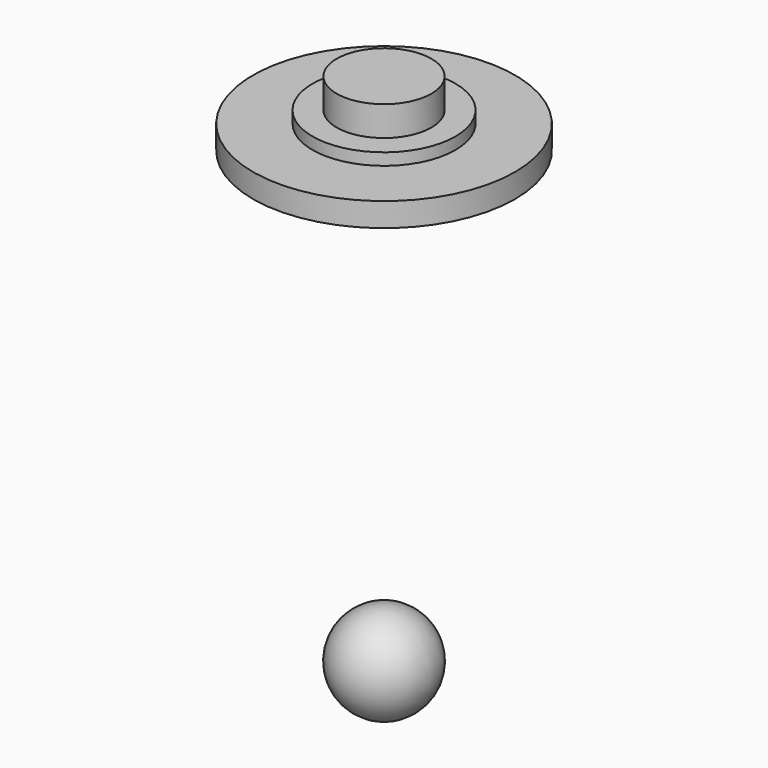
from build123d import *

# Parameters (mm, degrees)
F0_R     = 11
F1_DEPTH = 2
F2_R     = 6
F3_DEPTH = 1
F4_R     = 3.975
F5_DEPTH = 2.5
F7_DEPTH = 0.75


with BuildPart() as f1:
    # F0 (on Top) → F1 (new body)
    with BuildSketch(Plane.XY):
        Circle(F0_R)
    extrude(amount=F1_DEPTH)

    # F2 (on face) → F3 (join)
    with BuildSketch(Plane.XY.offset(2)):
        Circle(F2_R)
    extrude(amount=F3_DEPTH)

    # F4 (on face) → F5 (join)
    with BuildSketch(Plane.XY.offset(3)):
        Circle(F4_R)
    extrude(amount=F5_DEPTH)

    # F6 (on face) → F7 (cut)
    with BuildSketch(Plane(origin=(0, 0, 0), x_dir=(1, 0, 0), z_dir=(0, 0, -1))):
        with BuildLine():
            ThreePointArc((2.74524, -4.765885), (3.963217, -5.715974), (4.868249, -6.967794))
            ThreePointArc((4.868249, -6.967794), (-0.010492, 8.499994), (-4.851034, -6.979791))
            ThreePointArc((-4.851034, -6.979791), (-3.949094, -5.72574), (-2.733467, -4.772647))
            ThreePointArc((-2.733467, -4.772647), (-4.627931, -2.971911), (-5.477226, -0.5))
            Line((-5.477226, -0.5), (5.477226, -0.5))
            ThreePointArc((5.477226, -0.5), (4.631596, -2.966196), (2.74524, -4.765885))
        make_face()
        with BuildLine():
            ThreePointArc((-5.477226, 0.5), (0, 5.5), (5.477226, 0.5))
            Line((5.477226, 0.5), (-5.477226, 0.5))
        make_face(mode=Mode.SUBTRACT)
    extrude(amount=-F7_DEPTH, mode=Mode.SUBTRACT)


with BuildPart() as f9:
    # F8 (on Front) → F9 (revolve)
    with BuildSketch(Plane.XZ):
        with BuildLine():
            Line((0, -33.701194), (0, -41.701194))
            ThreePointArc((0, -41.701194), (4, -37.701194), (0, -33.701194))
        make_face()
    revolve(axis=Axis((0, 0, -37.701194), (0, 0, 1)))


solid = Compound([f1.part, f9.part])
